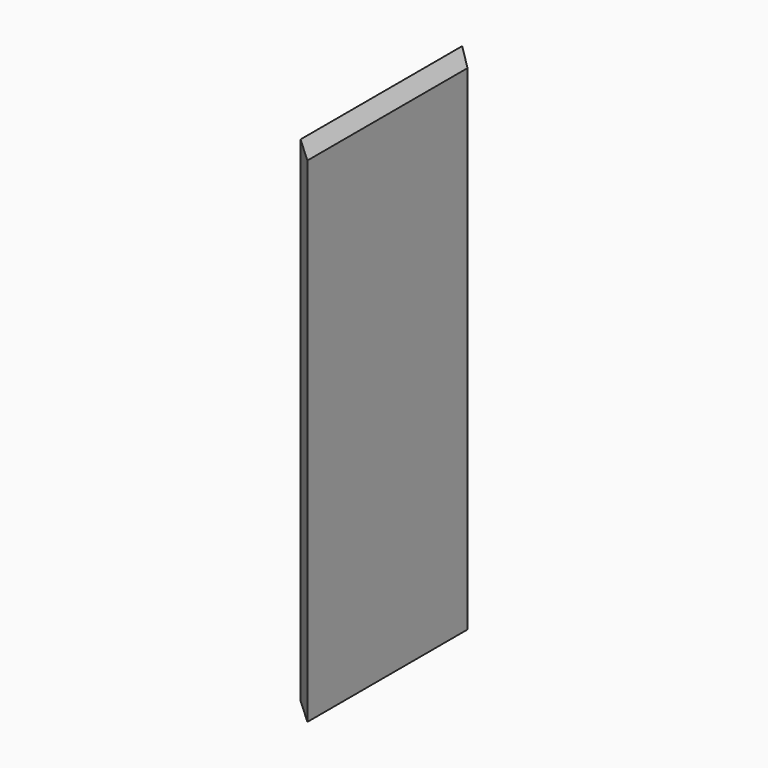
from build123d import *

# Parameters (mm, degrees)
F1_DEPTH = 1066.8


with BuildPart() as f1:
    # F0 (on Top) → F1 (new body, symmetric)
    with BuildSketch(Plane.XY):
        Polygon((-57.15, -326.40782), (57.15, -431.8), (57.15, 431.8), (-57.15, 431.8), align=None)
        Polygon((-57.15, 431.8), (57.15, 431.8), (-57.15, 546.1), align=None)
    extrude(amount=F1_DEPTH, both=True)


solid = f1.part
